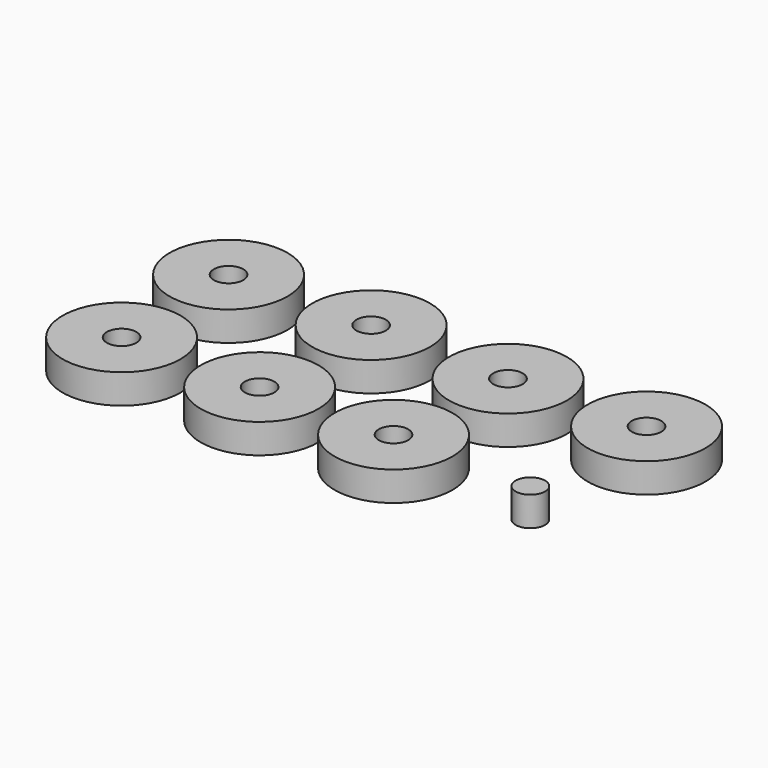
from build123d import *

# Parameters (mm, degrees)
F0_R     = 6.35
F0_R_2   = 1.5875
F1_DEPTH = 3.175


with BuildPart() as f1:
    # F0 (on Top) → F1 (new body)
    with BuildSketch(Plane.XY):
        with Locations((-24.601303, 9.60713)):
            Circle(F0_R)
        with Locations((-24.601303, 9.60713)):
            Circle(F0_R_2, mode=Mode.SUBTRACT)
        with Locations((-9.49377, 9.914634)):
            Circle(F0_R)
        with Locations((-9.49377, 9.914634)):
            Circle(F0_R_2, mode=Mode.SUBTRACT)
        with Locations((5.583865, 9.488119)):
            Circle(F0_R)
        with Locations((5.583865, 9.488119)):
            Circle(F0_R_2, mode=Mode.SUBTRACT)
        with Locations((20.104176, 9.992605)):
            Circle(F0_R)
        with Locations((20.104176, 9.992605)):
            Circle(F0_R_2, mode=Mode.SUBTRACT)
        with Locations((-24.487723, -4.934167)):
            Circle(F0_R)
        with Locations((-24.487723, -4.934167)):
            Circle(F0_R_2, mode=Mode.SUBTRACT)
        with Locations((4.440631, -4.489426)):
            Circle(F0_R)
        with Locations((4.440631, -4.489426)):
            Circle(F0_R_2, mode=Mode.SUBTRACT)
        with Locations((-9.775711, -4.746053)):
            Circle(F0_R)
        with Locations((-9.775711, -4.746053)):
            Circle(F0_R_2, mode=Mode.SUBTRACT)
        with Locations((19.263954, -4.599343)):
            Circle(F0_R_2)
    extrude(amount=F1_DEPTH)


solid = f1.part
